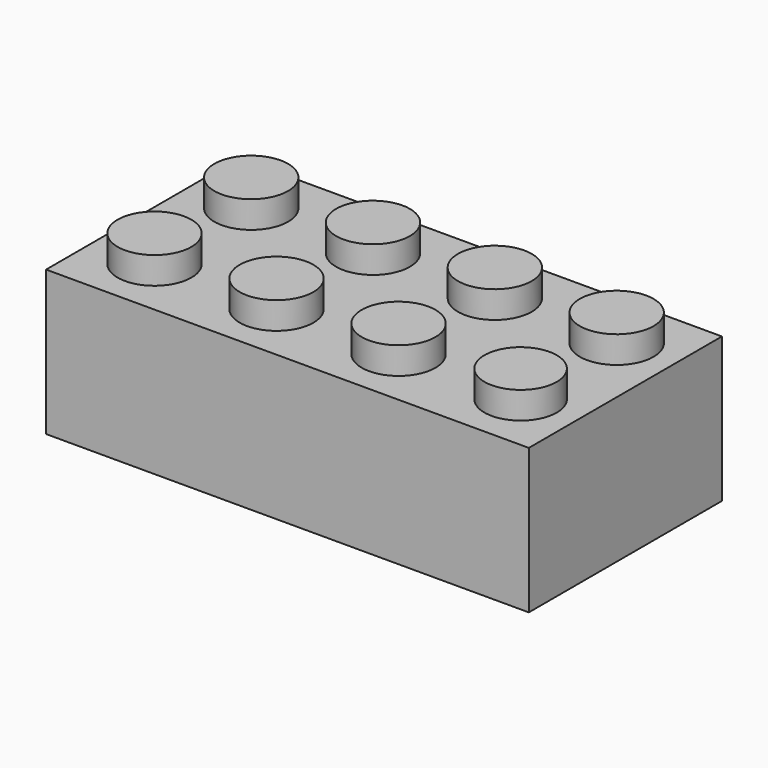
from build123d import *

# Parameters (mm, degrees)
F0_W      = 31.75
F0_H      = 15.875
F1_DEPTH  = 9.525
F2_R      = 2.4257
F10_DEPTH = 1.778
F3_R      = 2.4257
F11_DEPTH = 1.778
F4_R      = 2.4257
F12_DEPTH = 1.778
F5_R      = 2.4257
F13_DEPTH = 1.778
F6_R      = 2.4257
F14_DEPTH = 1.778
F7_R      = 2.4257
F15_DEPTH = 1.778
F8_R      = 2.4257
F16_DEPTH = 1.778
F9_R      = 2.378424
F17_DEPTH = 1.778
F18_W     = 29.5656
F18_H     = 13.6906
F19_DEPTH = 8.4328
F20_R     = 3.2512
F21_DEPTH = 8.4328
F22_R     = 2.4638
F23_DEPTH = 8.4328


with BuildPart() as f1:
    # F0 (on Top) → F1 (new body)
    with BuildSketch(Plane.XY):
        with Locations((-30.900414, 24.068166)):
            Rectangle(F0_W, F0_H)
    extrude(amount=F1_DEPTH)

    # F2 (on face) → F10 (join)
    with BuildSketch(Plane.XY.offset(9.525)):
        with Locations((-42.818414, 28.048666)):
            Circle(F2_R)
    extrude(amount=F10_DEPTH)

    # F3 (on face) → F11 (join)
    with BuildSketch(Plane.XY.offset(9.525)):
        with Locations((-34.804414, 28.043266)):
            Circle(F3_R)
    extrude(amount=F11_DEPTH)

    # F4 (on face) → F12 (join)
    with BuildSketch(Plane.XY.offset(9.525)):
        with Locations((-26.790414, 28.043266)):
            Circle(F4_R)
    extrude(amount=F12_DEPTH)

    # F5 (on face) → F13 (join)
    with BuildSketch(Plane.XY.offset(9.525)):
        with Locations((-18.776414, 28.043266)):
            Circle(F5_R)
    extrude(amount=F13_DEPTH)

    # F6 (on face) → F14 (join)
    with BuildSketch(Plane.XY.offset(9.525)):
        with Locations((-42.813014, 20.093066)):
            Circle(F6_R)
    extrude(amount=F14_DEPTH)

    # F7 (on face) → F15 (join)
    with BuildSketch(Plane.XY.offset(9.525)):
        with Locations((-34.786614, 20.093066)):
            Circle(F7_R)
    extrude(amount=F15_DEPTH)

    # F8 (on face) → F16 (join)
    with BuildSketch(Plane.XY.offset(9.525)):
        with Locations((-26.760214, 20.093066)):
            Circle(F8_R)
    extrude(amount=F16_DEPTH)

    # F9 (on face) → F17 (join)
    with BuildSketch(Plane.XY.offset(9.525)):
        with Locations((-18.733814, 20.093066)):
            Circle(F9_R)
    extrude(amount=F17_DEPTH)

    # F18 (on face) → F19 (cut)
    with BuildSketch(Plane(origin=(0, 0, 0), x_dir=(1, 0, 0), z_dir=(0, 0, -1))):
        with Locations((-30.900414, -24.068166)):
            Rectangle(F18_W, F18_H)
    extrude(amount=-F19_DEPTH, mode=Mode.SUBTRACT)

    # F20 (on face) → F21 (join)
    with BuildSketch(Plane(origin=(0, 0, 8.4328), x_dir=(1, 0, 0), z_dir=(0, 0, -1))):
        with Locations((-38.901414, -23.834838)):
            Circle(F20_R)
        with Locations((-30.894305, -23.72794)):
            Circle(F20_R)
        with Locations((-22.887197, -23.629721)):
            Circle(F20_R)
    extrude(amount=F21_DEPTH)

    # F22 (on face) → F23 (cut)
    with BuildSketch(Plane(origin=(0, 0, 0), x_dir=(1, 0, 0), z_dir=(0, 0, -1))):
        with Locations((-38.901414, -23.834838)):
            Circle(F22_R)
        with Locations((-30.894305, -23.72794)):
            Circle(F22_R)
        with Locations((-22.887197, -23.629721)):
            Circle(F22_R)
    extrude(amount=-F23_DEPTH, mode=Mode.SUBTRACT)


solid = f1.part
